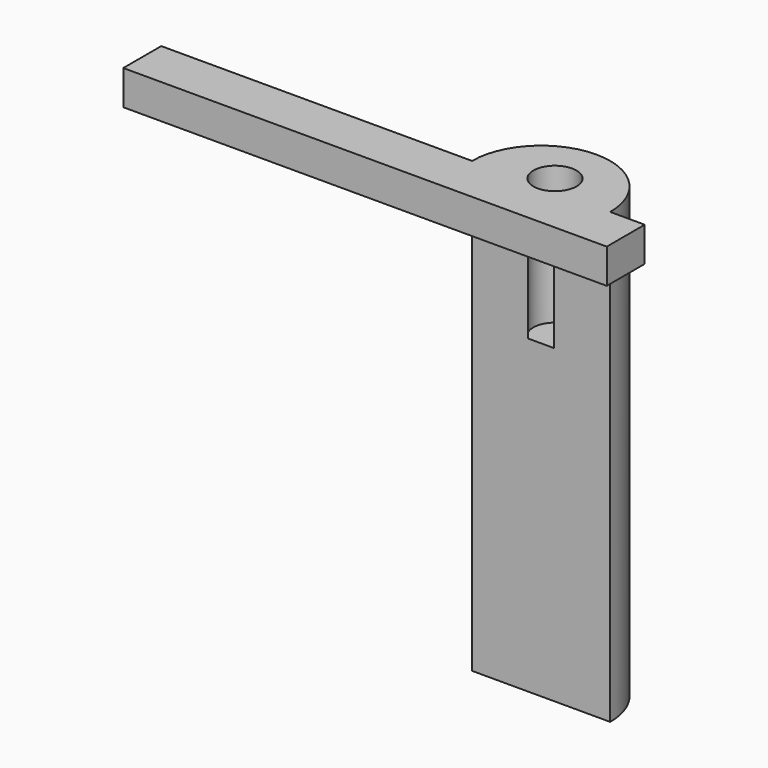
from build123d import *

# Parameters (mm, degrees)
CYLINDER026_R     = 1.25
CYLINDER026_DEPTH = 10
CYLINDER027_W     = 4
CYLINDER027_H     = 26
CYLINDER027_ANGLE = 180
BOX029_W          = 28
BOX029_H          = 2.75
BOX029_DEPTH      = 2


with BuildPart() as b_no001:
    # Cylinder026 → Cylinder026 (new body)
    with BuildSketch(Plane(origin=(55, 29, 4), x_dir=(1, 0, 0), z_dir=(0, 0, 1))):
        Circle(CYLINDER026_R)
    extrude(amount=CYLINDER026_DEPTH)


with BuildPart() as s015:
    # Cylinder027 → Cylinder027 (revolve)
    with BuildSketch(Plane(origin=(55, 28, -14), x_dir=(1, 0, 0), z_dir=(0, -1, 0))):
        with Locations((2, 13)):
            Rectangle(CYLINDER027_W, CYLINDER027_H)
    revolve(axis=Axis((55, 28, -14), (0, 0, 1)), revolution_arc=CYLINDER027_ANGLE)


with BuildPart() as obj1:
    # Box029 → Box029 (new body)
    with BuildSketch(Plane(origin=(33, 25.25, 10), x_dir=(1, 0, 0), z_dir=(0, 0, 1))):
        with Locations((14, 1.375)):
            Rectangle(BOX029_W, BOX029_H)
    extrude(amount=BOX029_DEPTH)

    # Fusion: union S015
    add(s015.part)

    # Cut010: cut B_NO001
    add(b_no001.part, mode=Mode.SUBTRACT)


with BuildPart() as obj1_1:
    # Cut010 placement: moved
    add(obj1.part.moved(Location((9, 15, 0))))


solid = obj1_1.part
